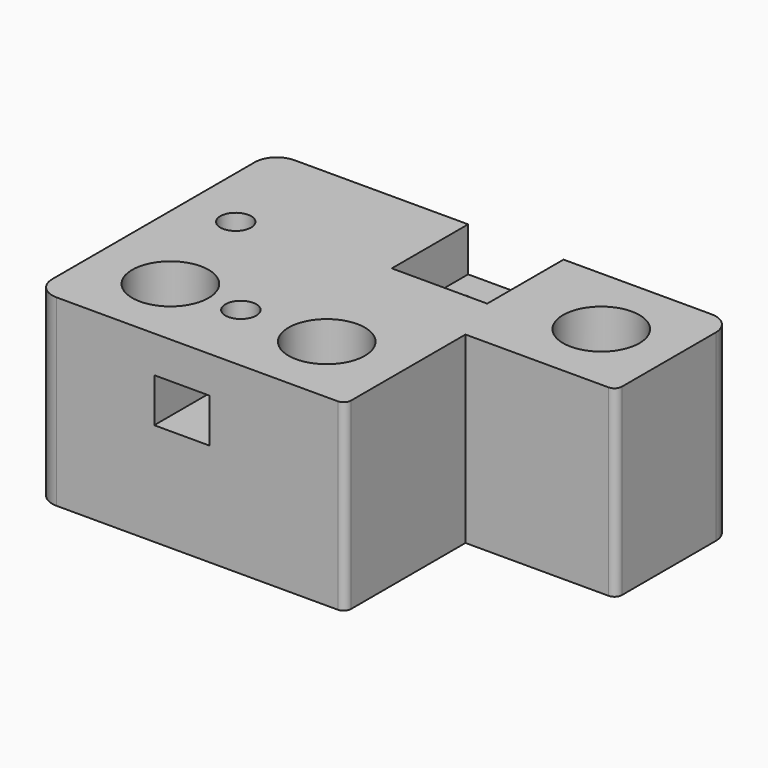
from build123d import *

# Parameters (mm, degrees)
EXTRUDE011_DEPTH          = 20
BOX013_W                  = 15
BOX013_H                  = 7.5
BOX013_DEPTH              = 6
CYLINDER004_R             = 2.1
CYLINDER004_DEPTH         = 5
CYLINDER003_R             = 1.05
CYLINDER003_DEPTH         = 7
BOX014_W                  = 13
BOX014_H                  = 13
BOX014_DEPTH              = 6
CYLINDER005_R             = 2.65
CYLINDER005_DEPTH         = 5
CYLINDER006_R             = 5.2
CYLINDER006_DEPTH         = 20
BOX015_W                  = 20.5
BOX015_H                  = 20.5
BOX015_DEPTH              = 25
BOX016_W                  = 7.5
BOX016_H                  = 13
BOX016_DEPTH              = 6
BOX017_W                  = 40.5
BOX017_H                  = 62.8
BOX017_DEPTH              = 25
FILLET003_1_R             = 3
FILLET003_2_R             = 1
FILLET003_PLACEMENT_ANGLE = 90


with BuildPart() as obj1:
    # Sketch011 → Extrude011 (new body)
    with BuildSketch(Plane.YZ):
        with BuildLine():
            ThreePointArc((-3.606243, 3.606246), (0, -5.1), (3.606243, 3.606246))
            Line((2.112489, 5.1), (3.606243, 3.606246))
            Line((-2.112489, 5.1), (2.112489, 5.1))
            Line((-3.606243, 3.606246), (-2.112489, 5.1))
        make_face()
    extrude(amount=EXTRUDE011_DEPTH)


with BuildPart() as obj1_1:
    # Extrude011 placement: moved
    add(obj1.part.moved(Location((20.5, 41.65, 15))))


with BuildPart() as hueco_taladro4:
    # Box013 → Box013 (new body)
    with BuildSketch(Plane(origin=(0, 39, 14), x_dir=(1, 0, 0), z_dir=(0, 0, 1))):
        with Locations((7.5, 3.75)):
            Rectangle(BOX013_W, BOX013_H)
    extrude(amount=BOX013_DEPTH)


with BuildPart() as taladro4:
    # Cylinder004 → Cylinder004 (new body)
    with BuildSketch(Plane(origin=(10, 42.7, 20), x_dir=(1, 0, 0), z_dir=(0, 0, 1))):
        Circle(CYLINDER004_R)
    extrude(amount=CYLINDER004_DEPTH)


with BuildPart() as clone012:
    # Clone012 base: copy of taladro4
    add(taladro4.part)


with BuildPart() as clone012_1:
    # Clone012 placement: moved
    add(clone012.part.moved(Location((15.5, 13.1, 0))))


with BuildPart() as taladro_endstop:
    # Cylinder003 → Cylinder003 (new body)
    with BuildSketch(Plane(origin=(35.5, 26.14, 12), x_dir=(1, 0, 0), z_dir=(0, 0, 1))):
        Circle(CYLINDER003_R)
    extrude(amount=CYLINDER003_DEPTH)


with BuildPart() as clone011:
    # Clone011 base: copy of taladro_endstop
    add(taladro_endstop.part)


with BuildPart() as clone011_1:
    # Clone011 placement: moved
    add(clone011.part.moved(Location((0, 7, 0))))


with BuildPart() as hueco_endstop:
    # Box014 → Box014 (new body)
    with BuildSketch(Plane(origin=(27.5, 23.14, 19), x_dir=(1, 0, 0), z_dir=(0, 0, 1))):
        with Locations((6.5, 6.5)):
            Rectangle(BOX014_W, BOX014_H)
    extrude(amount=BOX014_DEPTH)


with BuildPart() as taladro5:
    # Cylinder005 → Cylinder005 (new body)
    with BuildSketch(Plane(origin=(30.5, 10, 0), x_dir=(1, 0, 0), z_dir=(0, 0, 1))):
        Circle(CYLINDER005_R)
    extrude(amount=CYLINDER005_DEPTH)


with BuildPart() as clone014:
    # Clone014 base: copy of taladro5
    add(taladro5.part)


with BuildPart() as clone014_1:
    # Clone014 placement: moved
    add(clone014.part.moved(Location((-20.5, 21, 0))))


with BuildPart() as clone016:
    # Clone016 base: copy of Clone014
    add(clone014_1.part)


with BuildPart() as clone016_1:
    # Clone016 placement: moved
    add(clone016.part.moved(Location((0, 21.3, 0))))


with BuildPart() as taladro10:
    # Cylinder006 → Cylinder006 (new body)
    with BuildSketch(Plane(origin=(30.5, 10, 5), x_dir=(1, 0, 0), z_dir=(0, 0, 1))):
        Circle(CYLINDER006_R)
    extrude(amount=CYLINDER006_DEPTH)


with BuildPart() as clone015:
    # Clone015 base: copy of taladro10
    add(taladro10.part)


with BuildPart() as clone015_1:
    # Clone015 placement: moved
    add(clone015.part.moved(Location((-20.5, 21, 0))))


with BuildPart() as clone013:
    # Clone013 base: copy of Clone015
    add(clone015_1.part)


with BuildPart() as clone013_1:
    # Clone013 placement: moved
    add(clone013.part.moved(Location((0, 21.3, 0))))


with BuildPart() as obj2:
    # Box015 → Box015 (new body)
    with BuildSketch(Plane.XY):
        with Locations((10.25, 10.25)):
            Rectangle(BOX015_W, BOX015_H)
    extrude(amount=BOX015_DEPTH)


with BuildPart() as huecos:
    # Box016 → Box016 (new body)
    with BuildSketch(Plane(origin=(21.75, 49.8, 14), x_dir=(1, 0, 0), z_dir=(0, 0, 1))):
        with Locations((3.75, 6.5)):
            Rectangle(BOX016_W, BOX016_H)
    extrude(amount=BOX016_DEPTH)

    # Fusion016: union hueco_taladro4, Clone012, taladro4, Clone011, taladro_endstop, hueco_endstop, Clone016, Clone014, taladro5, Clone013, Clone015, taladro10, obj2
    add(hueco_taladro4.part)
    add(clone012_1.part)
    add(taladro4.part)
    add(clone011_1.part)
    add(taladro_endstop.part)
    add(hueco_endstop.part)
    add(clone016_1.part)
    add(clone014_1.part)
    add(taladro5.part)
    add(clone013_1.part)
    add(clone015_1.part)
    add(taladro10.part)
    add(obj2.part)


with BuildPart() as core_xy_derecho:
    # Box017 → Box017 (new body)
    with BuildSketch(Plane.XY):
        with Locations((20.25, 31.4)):
            Rectangle(BOX017_W, BOX017_H)
    extrude(amount=BOX017_DEPTH)

    # Cut011: cut huecos
    add(huecos.part, mode=Mode.SUBTRACT)

    # Cut010: cut obj1
    add(obj1_1.part, mode=Mode.SUBTRACT)

    # Fillet003 1
    fillet003_1_edges = [core_xy_derecho.edges().sort_by_distance(p)[0] for p in [
        (0, 62.8, 12.5),
        (40.5, 62.8, 12.5),
        (40.5, 0, 12.5),
    ]]
    fillet(fillet003_1_edges, radius=FILLET003_1_R)

    # Fillet003 2
    fillet003_2_edges = [core_xy_derecho.edges().sort_by_distance(p)[0] for p in [
        (0, 20.5, 12.5),
        (20.5, 0, 12.5),
    ]]
    fillet(fillet003_2_edges, radius=FILLET003_2_R)


with BuildPart() as core_xy_derecho_1:
    # Fillet003 placement: moved
    add(core_xy_derecho.part.moved(Location((710, 0, 610))).rotate(Axis((710, 0, 610), (0, 0, 1)), FILLET003_PLACEMENT_ANGLE))


solid = core_xy_derecho_1.part
